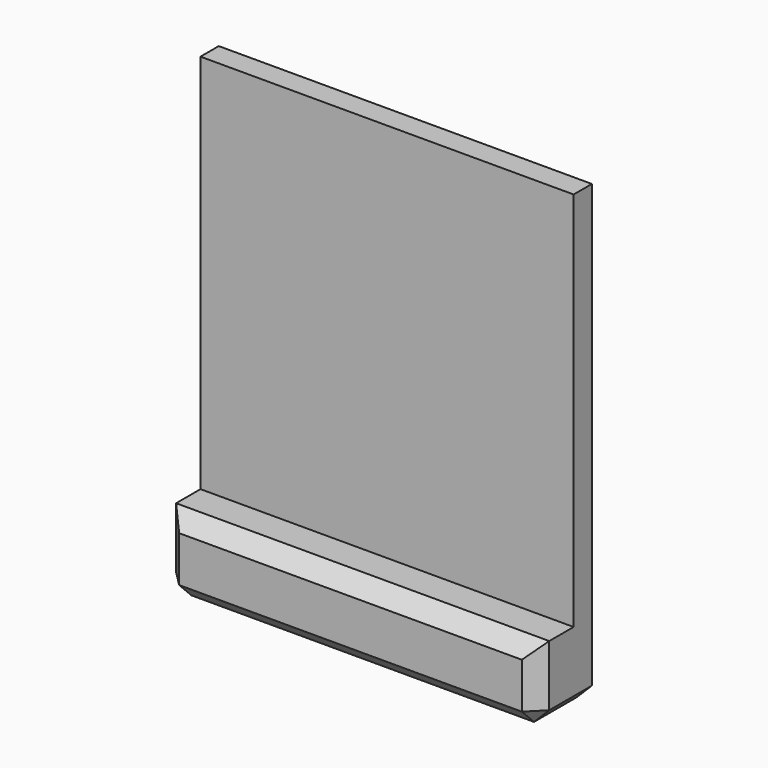
from build123d import *

# Parameters (mm, degrees)
SKETCH006_W  = 24.5
SKETCH006_H  = 2.5
PAD003_DEPTH = 30
SKETCH007_W  = 24.5
SKETCH007_H  = 5
PAD004_DEPTH = 3
CHAMFER_SIZE = 1


with BuildPart() as part:
    # Sketch006 (on XY_Plane003 of Origin006) → Pad003 (new body)
    with BuildSketch(Plane.XY):
        with Locations((5.368647, 1.814191)):
            Rectangle(SKETCH006_W, SKETCH006_H)
    extrude(amount=PAD003_DEPTH)

    # Sketch007 (on Face1 of Pad003) → Pad004 (join)
    with BuildSketch(Plane.XZ.offset(-0.564191)):
        with Locations((5.368647, 2.5)):
            Rectangle(SKETCH007_W, SKETCH007_H)
    extrude(amount=PAD004_DEPTH)

    # Chamfer
    chamfer_edges = [part.edges().sort_by_distance(p)[0] for p in [
        (17.618647, -2.435809, 2.5),
        (5.368647, -2.435809, 5),
        (-6.881353, -2.435809, 2.5),
        (5.368647, -2.435809, 0),
        (17.618647, 0.314191, 0),
        (-6.881353, 0.314191, 0),
        (5.368647, 3.064191, 0),
        (17.618647, 3.064191, 15),
        (-6.881353, 3.064191, 15),
        (5.368647, 3.064191, 30),
    ]]
    chamfer(chamfer_edges, length=CHAMFER_SIZE)


solid = part.part
